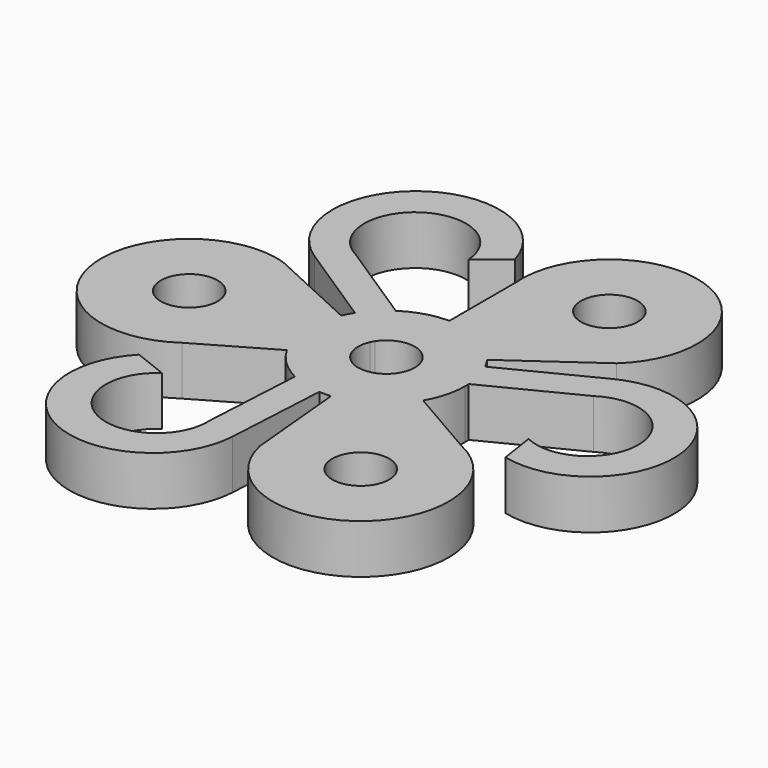
from build123d import *

# Parameters (mm, degrees)
F0_R     = 4.0005
F1_DEPTH = 6.9342


with BuildPart() as f1:
    # F0 (on Top) → F1 (new body)
    with BuildSketch(Plane.XY):
        with BuildLine():
            Line((9.054471, 6.420444), (20.719614, 14.692092))
            ThreePointArc((20.719614, 14.692092), (16.848066, 35.403093), (0, 22.750935))
            Line((0, 22.750935), (0, 11.0998))
            ThreePointArc((0, 11.0998), (5.096073, 9.860812), (9.054471, 6.420444))
        make_face()
        with Locations((12.352735, 23.845414)):
            Circle(F0_R, mode=Mode.SUBTRACT)
        with BuildLine():
            Line((19.702887, -11.375467), (9.612709, -5.5499))
            ThreePointArc((9.612709, -5.5499), (5.991677, -9.343734), (1.033032, -11.051625))
            Line((1.033032, -11.051625), (2.363918, -25.289759))
            ThreePointArc((2.363918, -25.289759), (22.235945, -32.2924), (19.702887, -11.375467))
        make_face()
        with Locations((14.474366, -22.62049)):
            Circle(F0_R, mode=Mode.SUBTRACT)
        with BuildLine():
            Line((22.659719, 11.475937), (9.902297, 5.014984))
            ThreePointArc((9.902297, 5.014984), (10.715942, 2.893812), (11.080669, 0.651412))
            Line((11.080669, 0.651412), (23.610404, 6.997052))
            ThreePointArc((23.610404, 6.997052), (34.708472, 1.450098), (24.392083, -5.442501))
            Line((24.392083, -5.442501), (25.16139, -10.471752))
            ThreePointArc((25.16139, -10.471752), (39.687234, 2.300371), (22.659719, 11.475937))
        make_face()
        with BuildLine():
            ThreePointArc((-0.608045, -11.083133), (-2.851856, -10.727184), (-4.976196, -9.921847))
            Line((-4.976196, -9.921847), (-5.745577, -23.945736))
            ThreePointArc((-5.745577, -23.945736), (-16.098414, -30.783468), (-16.909386, -18.402913))
            Line((-16.909386, -18.402913), (-21.649498, -16.554527))
            ThreePointArc((-21.649498, -16.554527), (-17.851438, -35.520339), (-1.391407, -25.361861))
            Line((-1.391407, -25.361861), (-0.608045, -11.083133))
        make_face()
        with BuildLine():
            ThreePointArc((-9.612709, -5.5499), (-11.08775, -0.517077), (-10.087504, 4.63118))
            Line((-10.087504, 4.63118), (-23.083532, 10.597666))
            ThreePointArc((-23.083532, 10.597666), (-39.084011, -3.110694), (-19.702887, -11.375467))
            Line((-19.702887, -11.375467), (-9.612709, -5.5499))
        make_face()
        with Locations((-26.827102, -1.224924)):
            Circle(F0_R, mode=Mode.SUBTRACT)
        with BuildLine():
            ThreePointArc((-9.294252, 6.068149), (-7.864086, 7.833372), (-6.104473, 9.270435))
            Line((-6.104473, 9.270435), (-17.864827, 16.948683))
            ThreePointArc((-17.864827, 16.948683), (-18.610058, 29.333369), (-7.482697, 23.845414))
            Line((-7.482697, 23.845414), (-3.511891, 27.026279))
            ThreePointArc((-3.511891, 27.026279), (-21.835797, 33.219968), (-21.268312, 13.885924))
            Line((-21.268312, 13.885924), (-9.294252, 6.068149))
        make_face()
        with BuildLine():
            ThreePointArc((9.902297, 5.014984), (9.504399, 5.733407), (9.054471, 6.420444))
            ThreePointArc((9.054471, 6.420444), (5.096073, 9.860812), (0, 11.0998))
            ThreePointArc((0, 11.0998), (-3.186345, 10.632627), (-6.104473, 9.270435))
            ThreePointArc((-6.104473, 9.270435), (-7.864086, 7.833372), (-9.294252, 6.068149))
            ThreePointArc((-9.294252, 6.068149), (-9.717476, 5.364347), (-10.087504, 4.63118))
            ThreePointArc((-10.087504, 4.63118), (-11.08775, -0.517077), (-9.612709, -5.5499))
            ThreePointArc((-9.612709, -5.5499), (-7.614953, -8.075769), (-4.976196, -9.921847))
            ThreePointArc((-4.976196, -9.921847), (-2.851856, -10.727184), (-0.608045, -11.083133))
            ThreePointArc((-0.608045, -11.083133), (0.213077, -11.097755), (1.033032, -11.051625))
            ThreePointArc((1.033032, -11.051625), (5.991677, -9.343734), (9.612709, -5.5499))
            ThreePointArc((9.612709, -5.5499), (10.721583, -2.87284), (11.0998, 0))
            ThreePointArc((11.0998, 0), (11.095016, 0.325846), (11.080669, 0.651412))
            ThreePointArc((11.080669, 0.651412), (10.715942, 2.893812), (9.902297, 5.014984))
        make_face()
        with BuildLine():
            ThreePointArc((-3.349759, 2.187033), (-0.076795, 3.999763), (3.263339, 2.314005))
            ThreePointArc((3.263339, 2.314005), (3.425498, 2.066388), (3.568906, 1.80746))
            ThreePointArc((3.568906, 1.80746), (3.891106, 0.929137), (4.0005, 0))
            ThreePointArc((4.0005, 0), (2.957487, -2.693933), (0.372317, -3.983137))
            ThreePointArc((0.372317, -3.983137), (0.076795, -3.999763), (-0.219147, -3.994493))
            ThreePointArc((-0.219147, -3.994493), (-3.425498, -2.066388), (-3.635656, 1.669132))
            ThreePointArc((-3.635656, 1.669132), (-3.502294, 1.933375), (-3.349759, 2.187033))
        make_face(mode=Mode.SUBTRACT)
    extrude(amount=F1_DEPTH)


solid = f1.part
